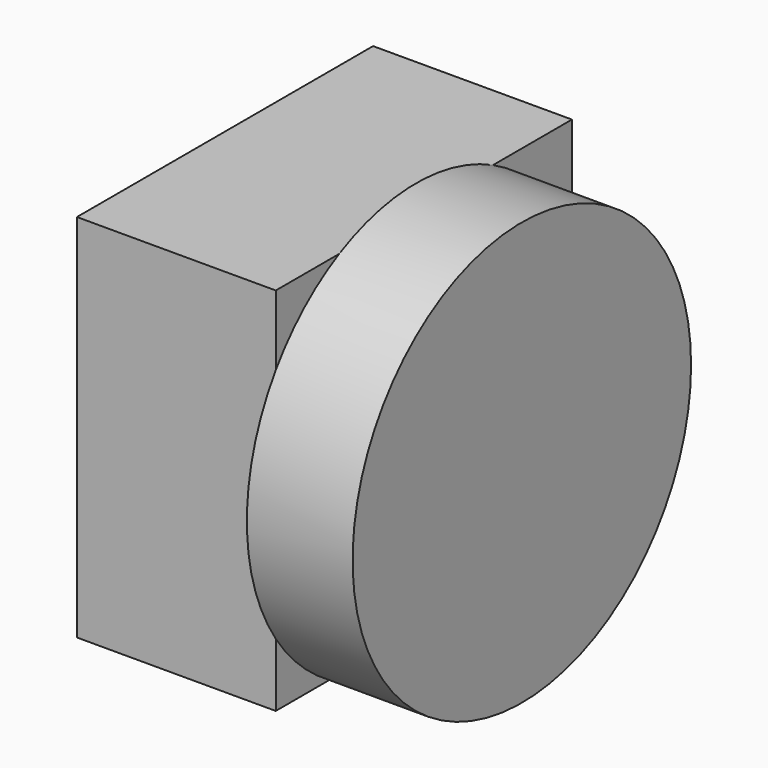
from build123d import *

# Parameters (mm, degrees)
F0_W     = 22.225
F0_H     = 22.225
F0_R     = 5.08
F1_DEPTH = 11.938
F2_DEPTH = 18.288
F4_R     = 12.7
F5_DEPTH = 6.35


with BuildPart() as f1:
    # F0 (on Right) → F1 (new body)
    with BuildSketch(Plane.YZ):
        with Locations((-4.1858740151, 25.9753634954)):
            Rectangle(F0_W, F0_H)
        with Locations((-4.1858740151, 25.9753634954)):
            Circle(F0_R, mode=Mode.SUBTRACT)
    extrude(amount=F1_DEPTH)

    # F0 (on Right) → F2 (join)
    with BuildSketch(Plane.YZ):
        with Locations((-4.1858740151, 25.9753634954)):
            Circle(F0_R)
    extrude(amount=F2_DEPTH)

    # F4 (on offset) → F5 (join)
    with BuildSketch(Plane.YZ.offset(11.938)):
        with Locations((-4.7678221017, 25.7760342211)):
            Circle(F4_R)
    extrude(amount=F5_DEPTH)


solid = f1.part
